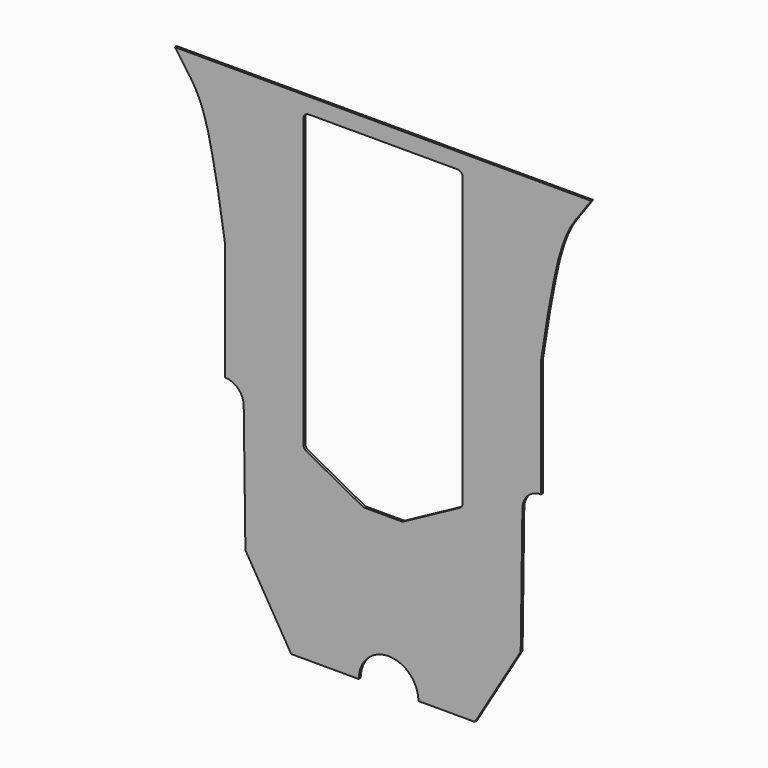
from build123d import *

# Parameters (mm, degrees)
F1_DEPTH = 3.048


with BuildPart() as f1:
    # F0 (on Front) → F1 (new body)
    with BuildSketch(Plane.XZ):
        with BuildLine():
            Line((228.6, 246.2557410921), (0, 246.2557410921))
            Line((0, 246.2557410921), (-228.6, 246.2557410921))
            Line((-228.6, 246.2557410921), (-265.8024430275, 246.2557410921))
            Line((-265.8024430275, 246.2557410921), (-252.6970505714, 227.6716828346))
            add(Edge.make_bspline(
                [(-201.850220561, 46.3554337621), (-204.1051852003, 61.7372401986), (-208.6036712949, 92.4227955983), (-217.8886704059, 140.0813170844), (-222.9482414814, 165.3770374409), (-235.098632684, 204.1934629253), (-247.1202266132, 220.2315879282), (-252.6970505714, 227.6716828346)],
                knots=[0, 0, 0, 0, 0.2254778023, 0.4498113809, 0.6186366969, 0.8230853564, 1, 1, 1, 1], degree=3))
            Line((-201.850220561, 46.3554337621), (-201.850220561, -104.5182589079))
            ThreePointArc((-201.850220561, -104.5182589079), (-184.9673390534, -111.5113774003), (-177.974220561, -128.3942589079))
            Line((-177.974220561, -128.3942589079), (-175.8137127407, -289.9877373574))
            Line((-175.8137127407, -289.9877373574), (-117.348, -387.8857791424))
            Line((-117.348, -387.8857791424), (-31.0282981902, -387.8857791424))
            ThreePointArc((-31.0282981902, -387.8857791424), (7.0717018098, -349.7857791424), (45.1717018098, -387.8857791424))
            Line((45.1717018098, -387.8857791424), (117.348, -387.8857791424))
            Line((117.348, -387.8857791424), (175.8137127407, -289.9877373574))
            Line((175.8137127407, -289.9877373574), (177.974220561, -128.3942589079))
            ThreePointArc((177.974220561, -128.3942589079), (184.9673390534, -111.5113774003), (201.850220561, -104.5182589079))
            Line((201.850220561, -104.5182589079), (201.850220561, 46.3554337621))
            add(Edge.make_bspline(
                [(201.850220561, 46.3554337621), (204.1051852003, 61.7372401986), (208.6036712949, 92.4227955983), (217.8886704059, 140.0813170844), (222.9482414814, 165.3770374409), (235.098632684, 204.1934629253), (247.1202266132, 220.2315879282), (252.6970505714, 227.6716828346)],
                knots=[0, 0, 0, 0, 0.2254778023, 0.4498113809, 0.6186366969, 0.8230853564, 1, 1, 1, 1], degree=3))
            Line((252.6970505714, 227.6716828346), (265.8024430275, 246.2557410921))
            Line((265.8024430275, 246.2557410921), (228.6, 246.2557410921))
        make_face()
        with BuildLine():
            Line((-101.6, -147.7392579563), (-101.6, 219.8743884218))
            ThreePointArc((-101.6, 219.8743884218), (-99.7401280605, 224.3645164824), (-95.25, 226.2243884218))
            Line((-95.25, 226.2243884218), (95.25, 226.2243884218))
            ThreePointArc((95.25, 226.2243884218), (99.7401280605, 224.3645164824), (101.6, 219.8743884218))
            Line((101.6, 219.8743884218), (101.6, -147.7392579563))
            ThreePointArc((101.6, -147.7392579563), (100.7028580828, -150.9933075455), (98.2649326838, -153.3278786191))
            Line((98.2649326838, -153.3278786191), (26.3687280188, -192.1142322409))
            ThreePointArc((26.3687280188, -192.1142322409), (24.9085877313, -192.6823250362), (23.353795335, -192.8756115782))
            Line((23.353795335, -192.8756115782), (-23.353795335, -192.8756115782))
            ThreePointArc((-23.353795335, -192.8756115782), (-24.9085877313, -192.6823250362), (-26.3687280188, -192.1142322409))
            Line((-26.3687280188, -192.1142322409), (-98.2649326838, -153.3278786191))
            ThreePointArc((-98.2649326838, -153.3278786191), (-100.7028580828, -150.9933075455), (-101.6, -147.7392579563))
        make_face(mode=Mode.SUBTRACT)
    extrude(amount=F1_DEPTH)


solid = f1.part
